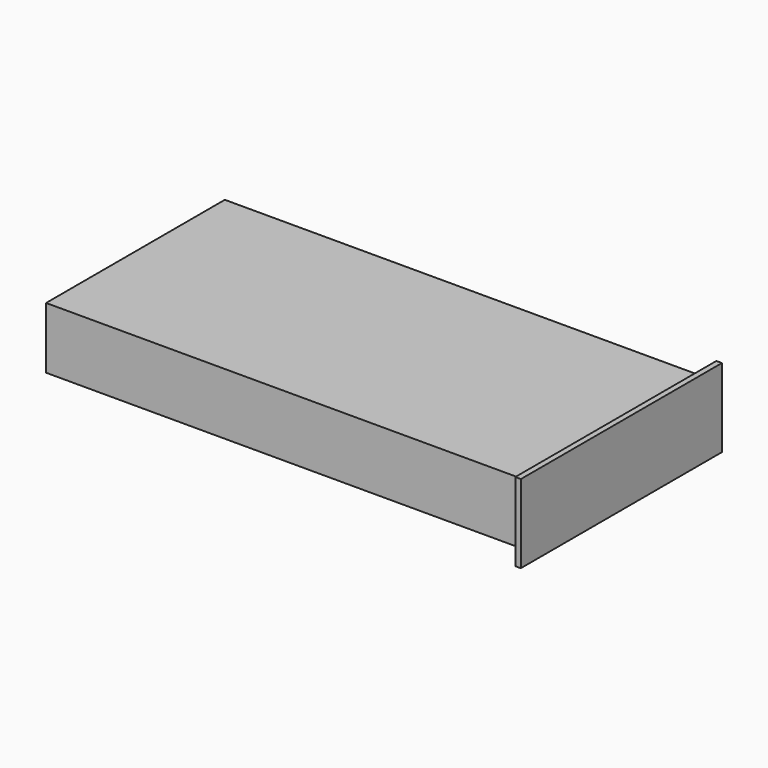
from build123d import *

# Parameters (mm, degrees)
F0_W     = 172
F0_H     = 80
F1_DEPTH = 22
F2_T     = -2
F3_W     = 2
F3_H     = 90
F4_DEPTH = 22.1
F5_DEPTH = 3
F6_DEPTH = 3


with BuildPart() as f1:
    # F0 (on Top) → F1 (new body)
    with BuildSketch(Plane.XY):
        with Locations((2.7826657335, -8.4195947275)):
            Rectangle(F0_W, F0_H)
    extrude(amount=F1_DEPTH)

    # F2
    f2_openings = [f1.faces().sort_by_distance(p)[0] for p in [
        (2.782666, -8.419595, 0),
    ]]
    offset(amount=F2_T, openings=f2_openings)


with BuildPart() as f4:
    # F3 (on Top) → F4 (new body)
    with BuildSketch(Plane.XY):
        with Locations((89.7852818131, -8.4195947275)):
            Rectangle(F3_W, F3_H)
    extrude(amount=F4_DEPTH)

    # F5 (add): a face of the model
    f5_faces = [f4.faces().sort_by_distance(p)[0] for p in [
        (89.7852818131, -8.4195947275, 0),
    ]]
    extrude(f5_faces, amount=F5_DEPTH)

    # F6 (add): a face of the model
    f6_faces = [f4.faces().sort_by_distance(p)[0] for p in [
        (89.7852818131, -8.4195947275, 22.1),
    ]]
    extrude(f6_faces, amount=F6_DEPTH)


solid = Compound([f1.part, f4.part])
